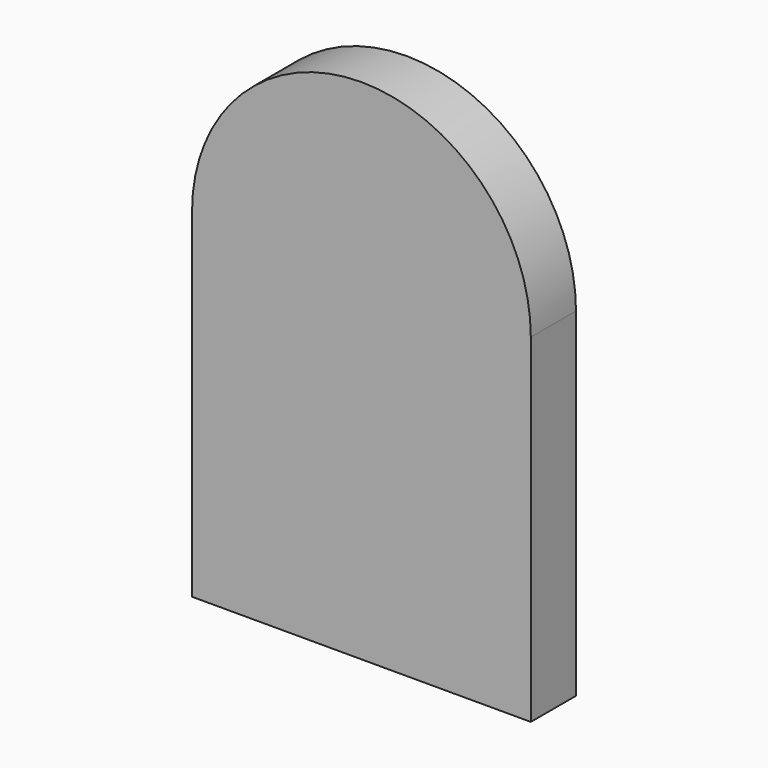
from build123d import *

# Parameters (mm, degrees)
F1_DEPTH = 63.5


with BuildPart() as f1:
    # F0 (on Front) → F1 (new body, symmetric)
    with BuildSketch(Plane.XZ):
        with BuildLine():
            Line((461.503446, -762), (461.503446, 0))
            ThreePointArc((461.503446, 0), (80.503446, 381), (-300.496554, 0))
            Line((-300.496554, 0), (-300.496554, -762))
            Line((-300.496554, -762), (461.503446, -762))
        make_face()
    extrude(amount=F1_DEPTH, both=True)


solid = f1.part
